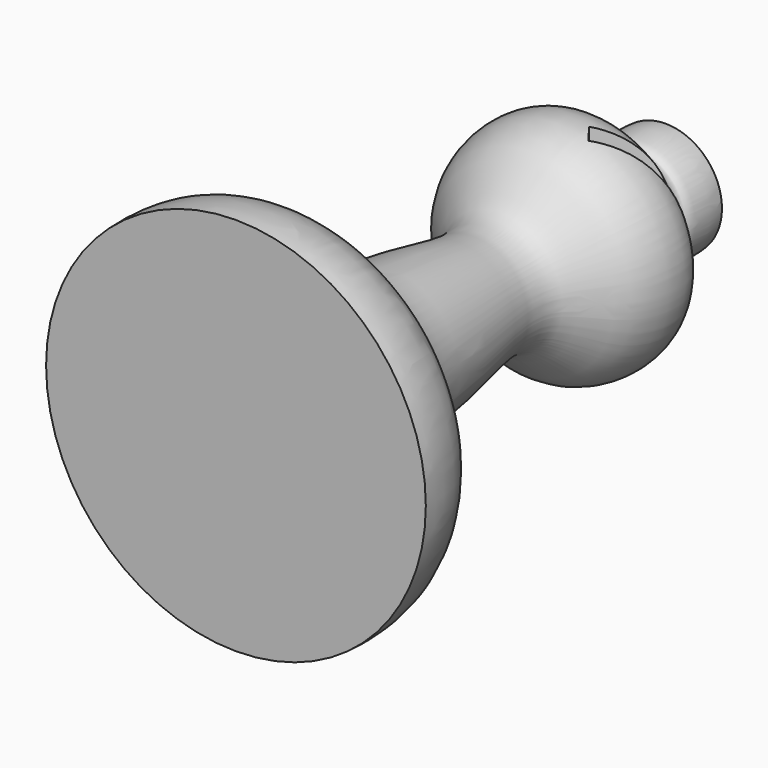
from build123d import *

# Parameters (mm, degrees)
F3_DEPTH = 25.4
F4_DEPTH = 25.4


with BuildPart() as f1:
    # F0 (on Top) → F1 (revolve)
    with BuildSketch(Plane.XY):
        with BuildLine():
            Line((0, 38.0783647754), (0, 0))
            Line((0, 0), (13.462, 0))
            add(Edge.make_bspline(
                [(0, 38.0783647754), (1.7847121098, 38.0028234364), (3.9214905323, 38.0016117272), (4.0342055351, 38.162049093), (4.2759704446, 34.3541366776), (2.0312120985, 35.8702656477), (2.8249253872, 32.3049585777), (8.3874112165, 32.6489950343), (8.1058320884, 25.6320821721), (2.7638682901, 23.5901713427), (5.12807472, 16.4286382177), (5.1481060819, 8.6690962152), (12.4716998617, 5.692322643), (13.5817032908, 2.3971635189), (13.462, 0)],
                knots=[0, 0, 0, 0, 0.086429151, 0.0937026785, 0.1666555161, 0.2131183676, 0.2743850906, 0.3662678841, 0.4638549012, 0.5569142524, 0.6676625853, 0.78597947, 0.898081801, 1, 1, 1, 1], degree=3))
        make_face()
    revolve(axis=Axis((0, 19.0391823877, 0), (0, 1, 0)))

    # F2 (on face) → F3 (cut)
    with BuildSketch(Plane.XY):
        Polygon((7.5759143831, 32.3279379144), (5.5121719461, 32.3279379144), (1.5443994233, 29.3689186297), (2.2819681285, 28.3799068794), align=None)
    extrude(amount=-F3_DEPTH, mode=Mode.SUBTRACT)

    # F2 (on face) → F4 (cut)
    with BuildSketch(Plane.XY):
        Polygon((7.5759143831, 32.3279379144), (5.5121719461, 32.3279379144), (1.5443994233, 29.3689186297), (2.2819681285, 28.3799068794), align=None)
    extrude(amount=F4_DEPTH, mode=Mode.SUBTRACT)


solid = f1.part
